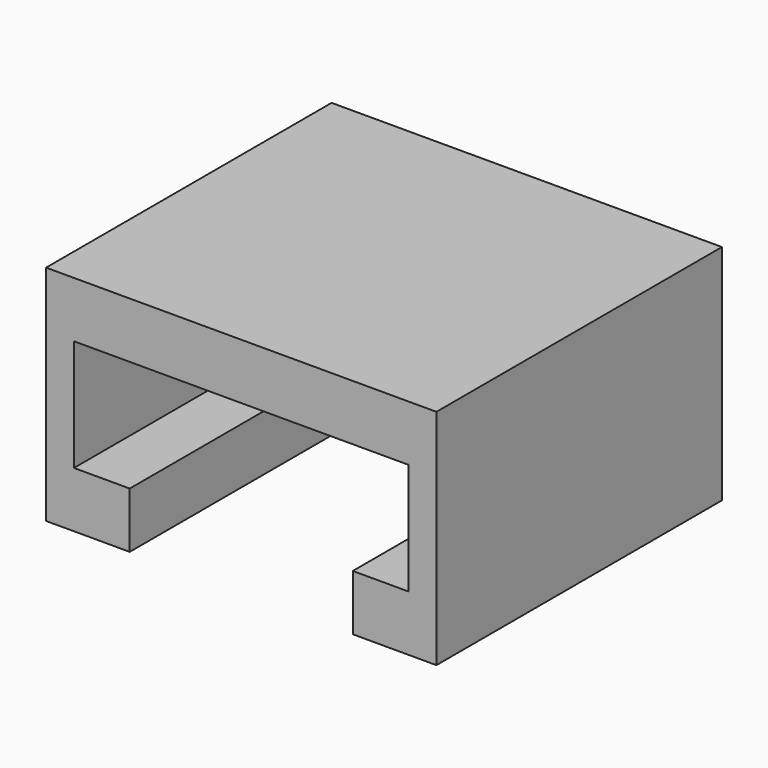
from build123d import *

# Parameters (mm, degrees)
F1_DEPTH      = 75
F1_DEPTH_BACK = 75
F2_W          = 175
F2_H          = 100
F3_DEPTH      = 10


with BuildPart() as f1:
    # F0 (on Front) → F1 (new body, two sides)
    with BuildSketch(Plane.XZ) as f1_sk:
        Polygon((87.5, -50), (87.5, 50), (-87.5, 50), (-87.5, -50), (-50, -50), (-50, -25), (-75, -25), (-75, 25), (75, 25), (75, -25), (50, -25), (50, -50), align=None)
    extrude(amount=F1_DEPTH)
    extrude(f1_sk.sketch, amount=-F1_DEPTH_BACK)

    # F2 (on face) → F3 (join)
    with BuildSketch(Plane(origin=(0, 75, 0), x_dir=(-1, 0, 0), z_dir=(0, 1, 0))):
        Rectangle(F2_W, F2_H)
    extrude(amount=F3_DEPTH)


solid = f1.part
